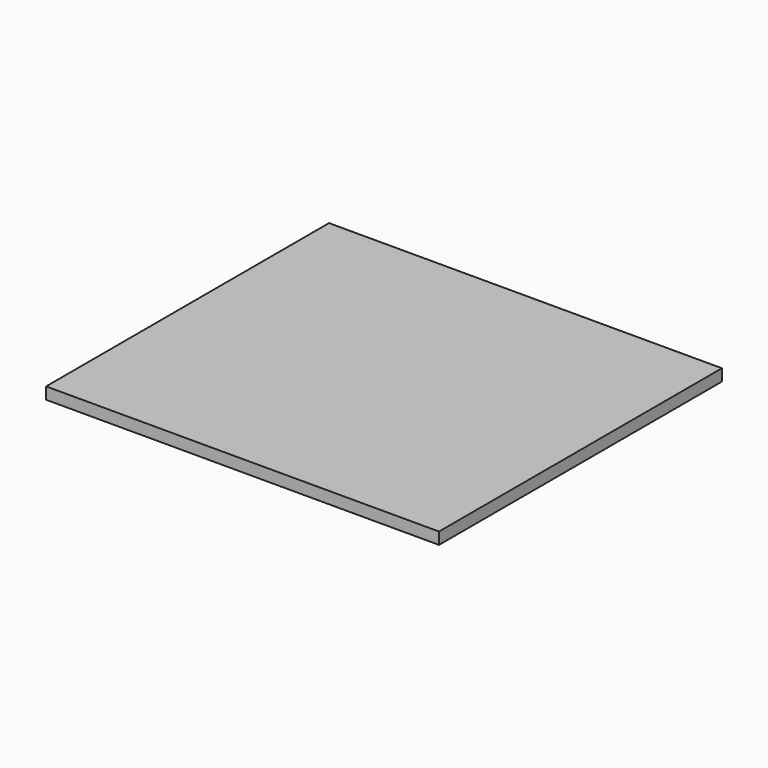
from build123d import *

# Parameters (mm, degrees)
F0_W     = 1000
F0_H     = 900
F1_DEPTH = 30
F2_W     = 950
F2_H     = 850
F3_DEPTH = 25


with BuildPart() as f1:
    # F0 (on Top) → F1 (new body)
    with BuildSketch(Plane.XY):
        Rectangle(F0_W, F0_H)
    extrude(amount=F1_DEPTH)

    # F2 (on face) → F3 (cut)
    with BuildSketch(Plane(origin=(0, 0, 0), x_dir=(1, 0, 0), z_dir=(0, 0, -1))):
        Rectangle(F2_W, F2_H)
    extrude(amount=-F3_DEPTH, mode=Mode.SUBTRACT)


solid = f1.part
